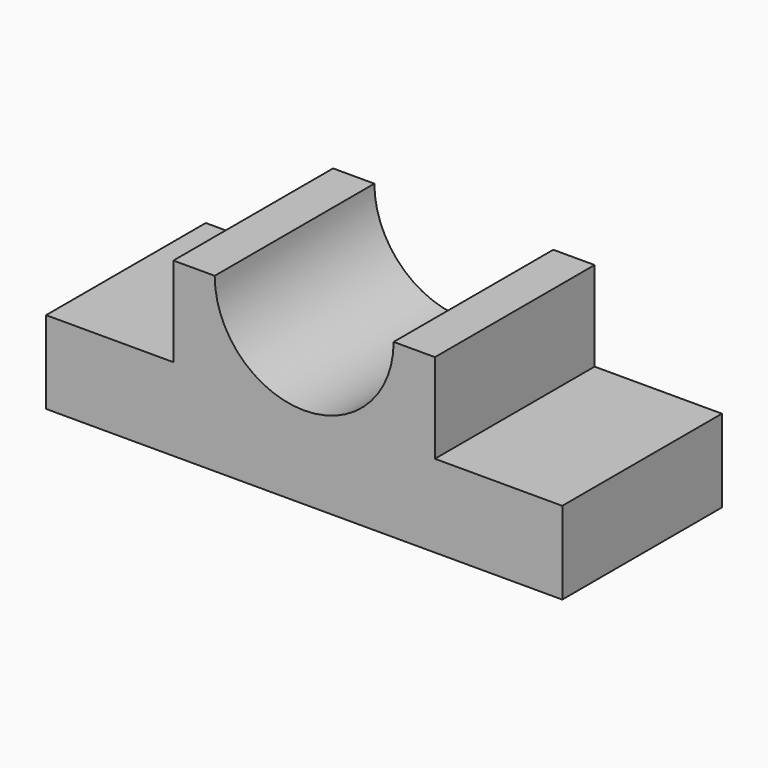
from build123d import *

# Parameters (mm, degrees)
F0_W     = 1930.4
F0_H     = 660.4
F0_H_2   = 609.6
F0_W_2   = 939.8
F1_DEPTH = 1473.2
F3_DEPTH = 1574.8


with BuildPart() as f1:
    # F0 (on Front) → F1 (new body)
    with BuildSketch(Plane.XZ):
        with Locations((1461.06854, 1021.501092)):
            Rectangle(F0_W, F0_H)
        with Locations((1461.06854, 386.501092)):
            Rectangle(F0_W, F0_H_2)
        with Locations((25.96854, 386.501092)):
            Rectangle(F0_W_2, F0_H_2)
        with Locations((2896.16854, 386.501092)):
            Rectangle(F0_W_2, F0_H_2)
    extrude(amount=F1_DEPTH)

    # F2 (on face) → F3 (cut)
    with BuildSketch(Plane.XZ.offset(1473.2)):
        with BuildLine():
            ThreePointArc((800.66854, 1351.701092), (1461.06854, 691.301092), (2121.46854, 1351.701092))
            Line((2121.46854, 1351.701092), (800.66854, 1351.701092))
        make_face()
    extrude(amount=-F3_DEPTH, mode=Mode.SUBTRACT)


solid = f1.part
